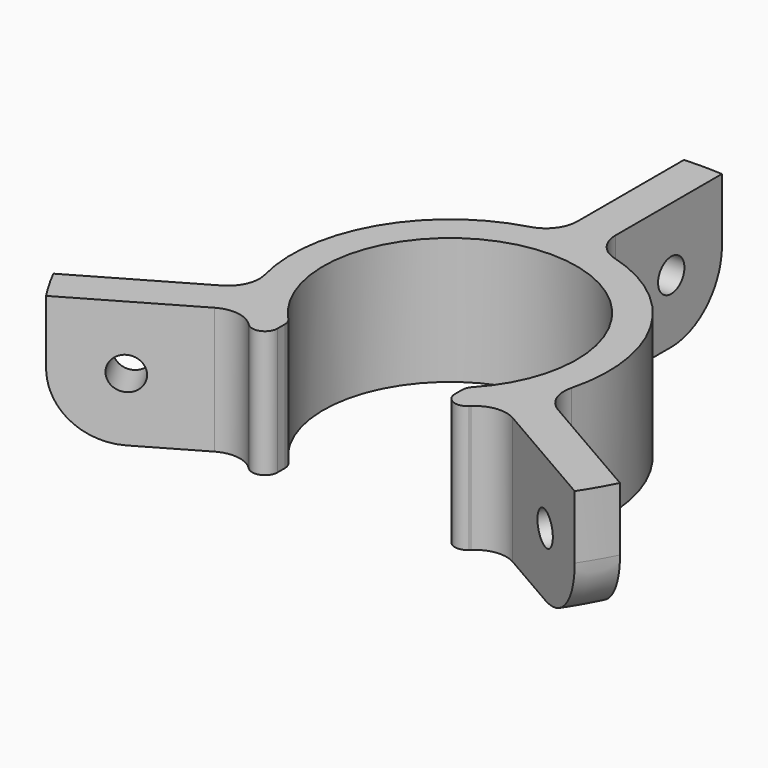
from build123d import *

# Parameters (mm, degrees)
SKETCH_R              = 50
SKETCH_R_2            = 20
PAD_DEPTH             = 20
POCKET_DEPTH          = 305.658137
POLARPATTERN_COUNT    = 3
SKETCH002_W           = 28
SKETCH002_H           = 22.742476
POCKET001_DEPTH       = 20.001
SKETCH003_R           = 2.6
POCKET002_DEPTH       = 287.850495
POLARPATTERN001_COUNT = 3
FILLET_R              = 2
FILLET001_R           = 5
FILLET002_R           = 10


with BuildPart() as part:
    # Sketch → Pad (new body)
    with BuildSketch(Plane.XY):
        Circle(SKETCH_R)
        Circle(SKETCH_R_2, mode=Mode.SUBTRACT)
    extrude(amount=PAD_DEPTH)

    # Sketch001 (on Face4 of Pad) → Pocket (cut, through all)
    with BuildSketch(Plane.XY.offset(20)):
        with BuildLine():
            ThreePointArc((22.994185, -9.811597), (21.650635, 12.5), (3, 24.819347))
            Line((3, 55.952225), (3, 24.819347))
            ThreePointArc((49.956048, -25.378036), (48.525649, 28.016297), (3, 55.952225))
            Line((22.994185, -9.811597), (49.956048, -25.378036))
        make_face()
    pocket = extrude(amount=-POCKET_DEPTH, mode=Mode.SUBTRACT)

    # PolarPattern: Pocket ×3 about axis
    polarpattern_axis = Axis((0, 0, 20), (0, 0, 1))
    for i in range(1, POLARPATTERN_COUNT):
        add(pocket.rotate(polarpattern_axis, i * 360 / POLARPATTERN_COUNT), mode=Mode.SUBTRACT)

    # Sketch002 (on Face4 of PolarPattern) → Pocket001 (cut, through all)
    with BuildSketch(Plane.XY.offset(20)):
        with Locations((0, -23.477223)):
            Rectangle(SKETCH002_W, SKETCH002_H)
    extrude(amount=-POCKET001_DEPTH, mode=Mode.SUBTRACT)

    # Sketch003 (on Face5 of Pocket001) → Pocket002 (cut, through all)
    with BuildSketch(Plane.YZ.offset(3)):
        with Locations((39.909919, 10)):
            Circle(SKETCH003_R)
    pocket002 = extrude(amount=-POCKET002_DEPTH, mode=Mode.SUBTRACT)

    # PolarPattern001: Pocket002 ×3 about axis
    polarpattern001_axis = Axis((0, 0, 0), (0, 0, 1))
    for i in range(1, POLARPATTERN001_COUNT):
        add(pocket002.rotate(polarpattern001_axis, i * 360 / POLARPATTERN001_COUNT), mode=Mode.SUBTRACT)

    # Fillet
    fillet_edges = [part.edges().sort_by_distance(p)[0] for p in [
        (-14, -20.712315, 10),
        (14, -20.712315, 10),
        (14, -14.282857, 10),
        (-14, -14.282857, 10),
    ]]
    fillet(fillet_edges, radius=FILLET_R)

    # Fillet001
    fillet001_edges = [part.edges().sort_by_distance(p)[0] for p in [
        (3, 24.819347, 10),
        (22.994185, -9.811597, 10),
        (-3, 24.819347, 10),
        (-22.994185, -9.811597, 10),
        (-19.994185, -15.00775, 10),
        (19.994185, -15.00775, 10),
    ]]
    fillet(fillet001_edges, radius=FILLET001_R)

    # Fillet002
    fillet002_edges = [part.edges().sort_by_distance(p)[0] for p in [
        (43.30127, -25, 0),
        (-43.30127, -25, 0),
        (0, 50, 0),
    ]]
    fillet(fillet002_edges, radius=FILLET002_R)


solid = part.part
